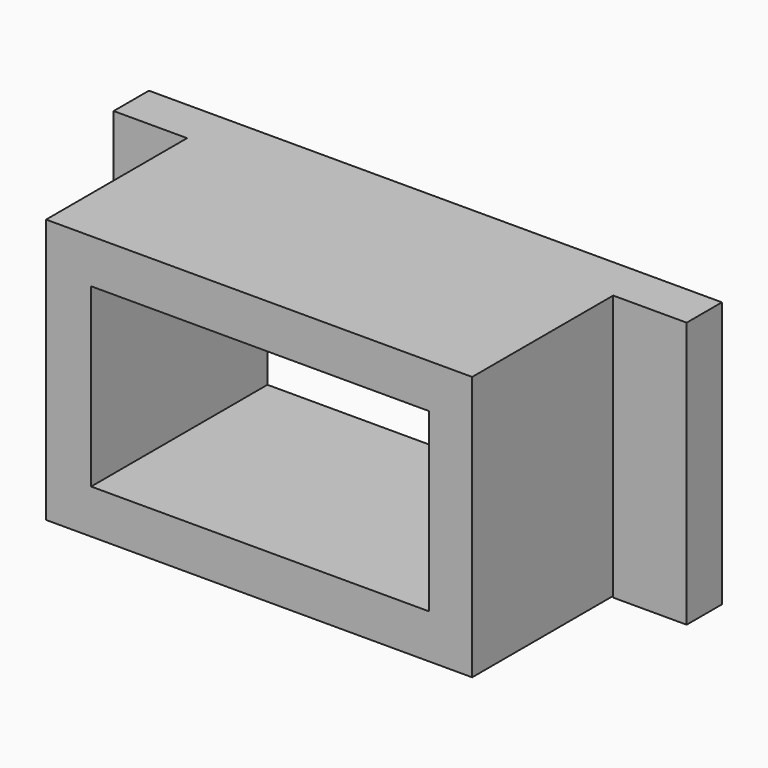
from build123d import *

# Parameters (mm, degrees)
F0_W     = 23
F0_H     = 12
F1_DEPTH = 15
F0_W_2   = 5
F0_H_2   = 17.782256
F2_DEPTH = 3


with BuildPart() as f1:
    # F0 (on Front) → F1 (new body)
    with BuildSketch(Plane.XZ):
        Polygon((12.80545, 46.678425), (-16.19455, 46.678425), (-16.19455, 28.896169), (-16.19455, 28.678425), (12.80545, 28.678425), align=None)
        with Locations((-1.62795, 37.678425)):
            Rectangle(F0_W, F0_H, mode=Mode.SUBTRACT)
    extrude(amount=F1_DEPTH)

    # F0 (on Front) → F2 (join)
    with BuildSketch(Plane.XZ):
        with Locations((-18.69455, 37.787297)):
            Rectangle(F0_W_2, F0_H_2)
        Polygon((17.80545, 46.678425), (12.80545, 46.678425), (12.80545, 28.678425), (12.80545, 28.578629), (17.80545, 28.578629), align=None)
    extrude(amount=F2_DEPTH)


solid = f1.part
